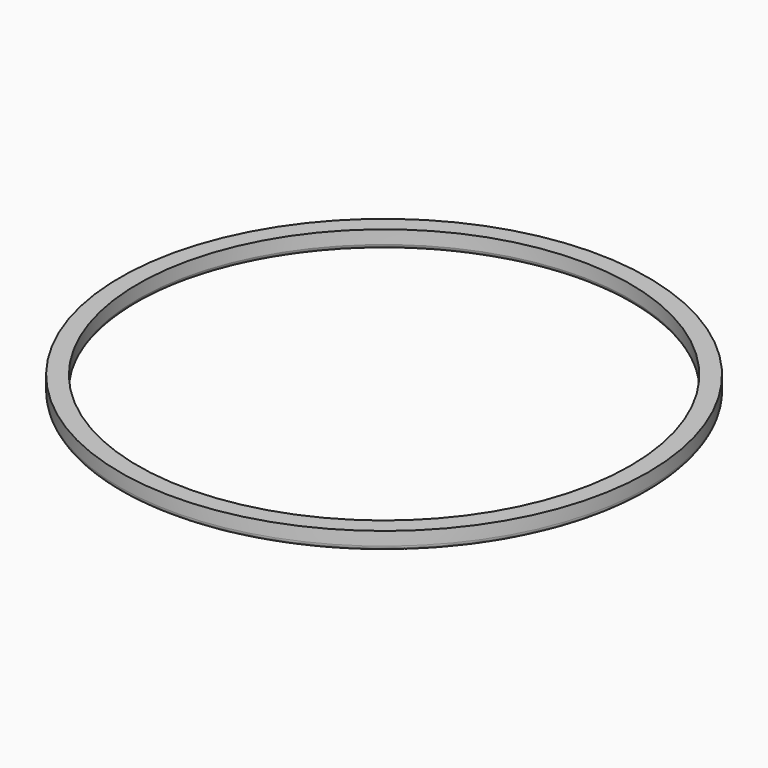
from build123d import *

# Parameters (mm, degrees)
SKETCH015_W = 1
SKETCH015_H = 1
FILLET001_R = 0.25
FILLET002_R = 0.25


with BuildPart() as part:
    # Sweep005: sweep along a path in Sketch016
    with BuildLine(Plane.XY) as sweep005_path:
        CenterArc((0, 0), 13.875, 0, 360)
    # Sketch015 → Sweep005 (sweep)
    with BuildSketch(Plane.XZ):
        with Locations((-14.375, 0)):
            Rectangle(SKETCH015_W, SKETCH015_H)
    sweep(path=sweep005_path.line)

    # Fillet001
    fillet001_edges = [part.edges().sort_by_distance(p)[0] for p in [
        (-14.875, 0, -0.5),
    ]]
    fillet(fillet001_edges, radius=FILLET001_R)

    # Fillet002
    fillet002_edges = [part.edges().sort_by_distance(p)[0] for p in [
        (-13.875, 0, -0.5),
    ]]
    fillet(fillet002_edges, radius=FILLET002_R)


solid = part.part
